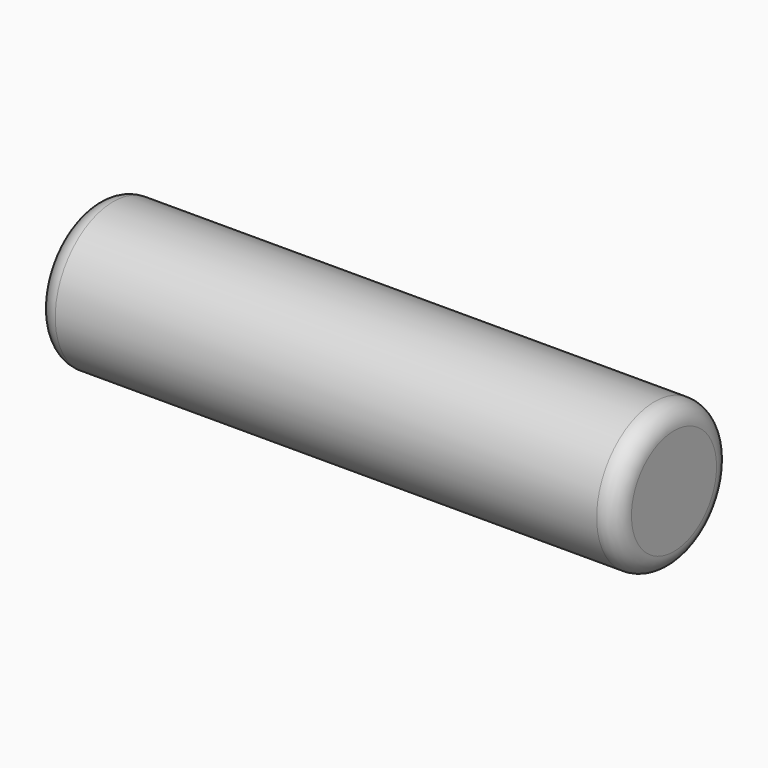
from build123d import *

# Parameters (mm, degrees)
F0_R     = 75
F1_DEPTH = 300
F2_R     = 20


with BuildPart() as f1:
    # F0 (on Right) → F1 (new body, symmetric)
    with BuildSketch(Plane.YZ):
        Circle(F0_R)
    extrude(amount=F1_DEPTH, both=True)

    # F2
    f2_edges = [f1.edges().sort_by_distance(p)[0] for p in [
        (-300, -75, 0),
        (0, 75, 0),
        (300, -75, 0),
    ]]
    fillet(f2_edges, radius=F2_R)


solid = f1.part
